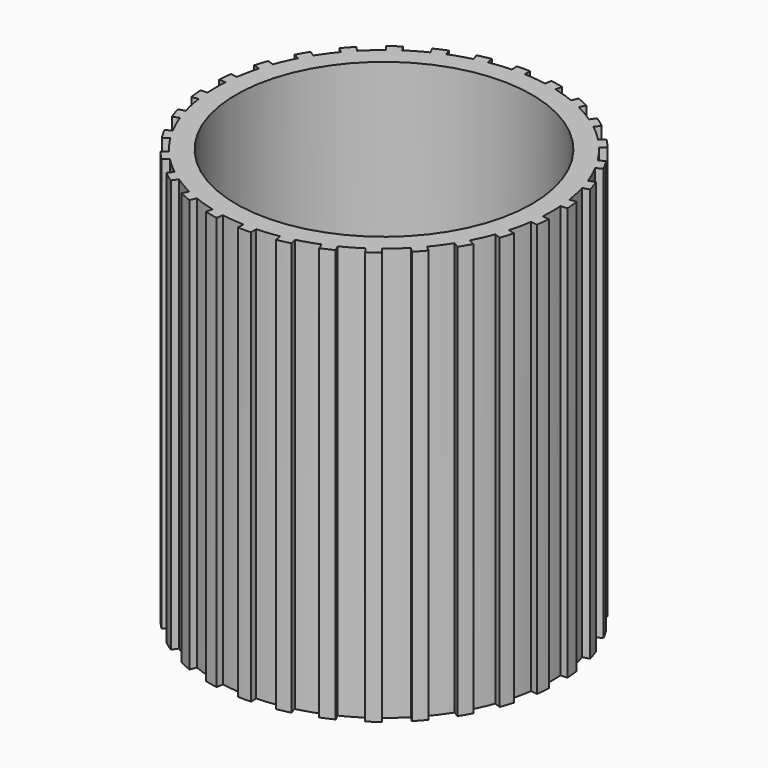
from build123d import *

# Parameters (mm, degrees)
F0_R     = 12.5
F1_DEPTH = 15.5
F0_R_2   = 11.1
F2_DEPTH = 15.5


with BuildPart() as f1:
    # F0 (on Top) → F1 (new body, symmetric)
    with BuildSketch(Plane.XY):
        with BuildLine():
            Line((0.5, -13.090455), (0.480916, -12.590819))
            ThreePointArc((0.480916, -12.590819), (1.317059, -12.530976), (2.147372, -12.415667))
            Line((2.147372, -12.415667), (2.232585, -12.908353))
            ThreePointArc((2.232585, -12.908353), (2.723643, -12.813734), (3.210732, -12.700441))
            Line((3.210732, -12.700441), (3.088185, -12.215691))
            ThreePointArc((3.088185, -12.215691), (3.893614, -11.983312), (4.681809, -11.697892))
            Line((4.681809, -11.697892), (4.867595, -12.162094))
            ThreePointArc((4.867595, -12.162094), (5.32825, -11.967445), (5.78114, -11.755357))
            Line((5.78114, -11.755357), (5.560486, -11.306679))
            ThreePointArc((5.560486, -11.306679), (6.3, -10.91192), (7.011628, -10.468862))
            Line((7.011628, -10.468862), (7.289868, -10.884293))
            ThreePointArc((7.289868, -10.884293), (7.699987, -10.598123), (8.098885, -10.296508))
            Line((8.098885, -10.296508), (7.789767, -9.903511))
            ThreePointArc((7.789767, -9.903511), (8.431046, -9.363625), (9.035006, -8.782293))
            Line((9.035006, -8.782293), (9.393538, -9.130796))
            ThreePointArc((9.393538, -9.130796), (9.735197, -8.765611), (10.062669, -8.387651))
            Line((10.062669, -8.387651), (9.678598, -8.067512))
            ThreePointArc((9.678598, -8.067512), (10.193614, -7.406094), (10.663511, -6.711895))
            Line((10.663511, -6.711895), (11.086666, -6.97824))
            ThreePointArc((11.086666, -6.97824), (11.344933, -6.55), (11.586666, -6.112215))
            Line((11.586666, -6.112215), (11.144427, -5.878924))
            ThreePointArc((11.144427, -5.878924), (11.510673, -5.124882), (11.825969, -4.348155))
            Line((11.825969, -4.348155), (12.295254, -4.520701))
            ThreePointArc((12.295254, -4.520701), (12.45884, -4.048123), (12.604271, -3.569645))
            Line((12.604271, -3.569645), (12.123192, -3.433399))
            ThreePointArc((12.123192, -3.433399), (12.32466, -2.619687), (12.471576, -1.79438))
            Line((12.471576, -1.79438), (12.966479, -1.865586))
            ThreePointArc((12.966479, -1.865586), (13.028237, -1.369323), (13.071008, -0.871064))
            Line((13.071008, -0.871064), (12.572114, -0.837817))
            ThreePointArc((12.572114, -0.837817), (12.6, 0), (12.572114, 0.837817))
            Line((12.572114, 0.837817), (13.071008, 0.871064))
            ThreePointArc((13.071008, 0.871064), (13.028237, 1.369323), (12.966479, 1.865586))
            Line((12.966479, 1.865586), (12.471576, 1.79438))
            ThreePointArc((12.471576, 1.79438), (12.32466, 2.619687), (12.123192, 3.433399))
            Line((12.123192, 3.433399), (12.604271, 3.569645))
            ThreePointArc((12.604271, 3.569645), (12.45884, 4.048123), (12.295254, 4.520701))
            Line((12.295254, 4.520701), (11.825969, 4.348155))
            ThreePointArc((11.825969, 4.348155), (11.510673, 5.124882), (11.144427, 5.878924))
            Line((11.144427, 5.878924), (11.586666, 6.112215))
            ThreePointArc((11.586666, 6.112215), (11.344933, 6.55), (11.086666, 6.97824))
            Line((11.086666, 6.97824), (10.663511, 6.711895))
            ThreePointArc((10.663511, 6.711895), (10.193614, 7.406094), (9.678598, 8.067512))
            Line((9.678598, 8.067512), (10.062669, 8.387651))
            ThreePointArc((10.062669, 8.387651), (9.735197, 8.765611), (9.393538, 9.130796))
            Line((9.393538, 9.130796), (9.035006, 8.782293))
            ThreePointArc((9.035006, 8.782293), (8.431046, 9.363625), (7.789767, 9.903511))
            Line((7.789767, 9.903511), (8.098885, 10.296508))
            ThreePointArc((8.098885, 10.296508), (7.699987, 10.598123), (7.289868, 10.884293))
            Line((7.289868, 10.884293), (7.011628, 10.468862))
            ThreePointArc((7.011628, 10.468862), (6.3, 10.91192), (5.560486, 11.306679))
            Line((5.560486, 11.306679), (5.78114, 11.755357))
            ThreePointArc((5.78114, 11.755357), (5.32825, 11.967445), (4.867595, 12.162094))
            Line((4.867595, 12.162094), (4.681809, 11.697892))
            ThreePointArc((4.681809, 11.697892), (3.893614, 11.983312), (3.088185, 12.215691))
            Line((3.088185, 12.215691), (3.210732, 12.700441))
            ThreePointArc((3.210732, 12.700441), (2.723643, 12.813734), (2.232585, 12.908353))
            Line((2.232585, 12.908353), (2.147372, 12.415667))
            ThreePointArc((2.147372, 12.415667), (1.317059, 12.530976), (0.480916, 12.590819))
            Line((0.480916, 12.590819), (0.5, 13.090455))
            ThreePointArc((0.5, 13.090455), (0, 13.1), (-0.5, 13.090455))
            Line((-0.5, 13.090455), (-0.480916, 12.590819))
            ThreePointArc((-0.480916, 12.590819), (-1.317059, 12.530976), (-2.147372, 12.415667))
            Line((-2.147372, 12.415667), (-2.232585, 12.908353))
            ThreePointArc((-2.232585, 12.908353), (-2.723643, 12.813734), (-3.210732, 12.700441))
            Line((-3.210732, 12.700441), (-3.088185, 12.215691))
            ThreePointArc((-3.088185, 12.215691), (-3.893614, 11.983312), (-4.681809, 11.697892))
            Line((-4.681809, 11.697892), (-4.867595, 12.162094))
            ThreePointArc((-4.867595, 12.162094), (-5.32825, 11.967445), (-5.78114, 11.755357))
            Line((-5.78114, 11.755357), (-5.560486, 11.306679))
            ThreePointArc((-5.560486, 11.306679), (-6.3, 10.91192), (-7.011628, 10.468862))
            Line((-7.011628, 10.468862), (-7.289868, 10.884293))
            ThreePointArc((-7.289868, 10.884293), (-7.699987, 10.598123), (-8.098885, 10.296508))
            Line((-8.098885, 10.296508), (-7.789767, 9.903511))
            ThreePointArc((-7.789767, 9.903511), (-8.431046, 9.363625), (-9.035006, 8.782293))
            Line((-9.035006, 8.782293), (-9.393538, 9.130796))
            ThreePointArc((-9.393538, 9.130796), (-9.735197, 8.765611), (-10.062669, 8.387651))
            Line((-10.062669, 8.387651), (-9.678598, 8.067512))
            ThreePointArc((-9.678598, 8.067512), (-10.193614, 7.406094), (-10.663511, 6.711895))
            Line((-10.663511, 6.711895), (-11.086666, 6.97824))
            ThreePointArc((-11.086666, 6.97824), (-11.344933, 6.55), (-11.586666, 6.112215))
            Line((-11.586666, 6.112215), (-11.144427, 5.878924))
            ThreePointArc((-11.144427, 5.878924), (-11.510673, 5.124882), (-11.825969, 4.348155))
            Line((-11.825969, 4.348155), (-12.295254, 4.520701))
            ThreePointArc((-12.295254, 4.520701), (-12.45884, 4.048123), (-12.604271, 3.569645))
            Line((-12.604271, 3.569645), (-12.123192, 3.433399))
            ThreePointArc((-12.123192, 3.433399), (-12.32466, 2.619687), (-12.471576, 1.79438))
            Line((-12.471576, 1.79438), (-12.966479, 1.865586))
            ThreePointArc((-12.966479, 1.865586), (-13.028237, 1.369323), (-13.071008, 0.871064))
            Line((-13.071008, 0.871064), (-12.572114, 0.837817))
            ThreePointArc((-12.572114, 0.837817), (-12.6, 0), (-12.572114, -0.837817))
            Line((-12.572114, -0.837817), (-13.071008, -0.871064))
            ThreePointArc((-13.071008, -0.871064), (-13.028237, -1.369323), (-12.966479, -1.865586))
            Line((-12.966479, -1.865586), (-12.471576, -1.79438))
            ThreePointArc((-12.471576, -1.79438), (-12.32466, -2.619687), (-12.123192, -3.433399))
            Line((-12.123192, -3.433399), (-12.604271, -3.569645))
            ThreePointArc((-12.604271, -3.569645), (-12.45884, -4.048123), (-12.295254, -4.520701))
            Line((-12.295254, -4.520701), (-11.825969, -4.348155))
            ThreePointArc((-11.825969, -4.348155), (-11.510673, -5.124882), (-11.144427, -5.878924))
            Line((-11.144427, -5.878924), (-11.586666, -6.112215))
            ThreePointArc((-11.586666, -6.112215), (-11.344933, -6.55), (-11.086666, -6.97824))
            Line((-11.086666, -6.97824), (-10.663511, -6.711895))
            ThreePointArc((-10.663511, -6.711895), (-10.193614, -7.406094), (-9.678598, -8.067512))
            Line((-9.678598, -8.067512), (-10.062669, -8.387651))
            ThreePointArc((-10.062669, -8.387651), (-9.735197, -8.765611), (-9.393538, -9.130796))
            Line((-9.393538, -9.130796), (-9.035006, -8.782293))
            ThreePointArc((-9.035006, -8.782293), (-8.431046, -9.363625), (-7.789767, -9.903511))
            Line((-7.789767, -9.903511), (-8.098885, -10.296508))
            ThreePointArc((-8.098885, -10.296508), (-7.699987, -10.598123), (-7.289868, -10.884293))
            Line((-7.289868, -10.884293), (-7.011628, -10.468862))
            ThreePointArc((-7.011628, -10.468862), (-6.3, -10.91192), (-5.560486, -11.306679))
            Line((-5.560486, -11.306679), (-5.78114, -11.755357))
            ThreePointArc((-5.78114, -11.755357), (-5.32825, -11.967445), (-4.867595, -12.162094))
            Line((-4.867595, -12.162094), (-4.681809, -11.697892))
            ThreePointArc((-4.681809, -11.697892), (-3.893614, -11.983312), (-3.088185, -12.215691))
            Line((-3.088185, -12.215691), (-3.210732, -12.700441))
            ThreePointArc((-3.210732, -12.700441), (-2.723643, -12.813734), (-2.232585, -12.908353))
            Line((-2.232585, -12.908353), (-2.147372, -12.415667))
            ThreePointArc((-2.147372, -12.415667), (-1.317059, -12.530976), (-0.480916, -12.590819))
            Line((-0.480916, -12.590819), (-0.5, -13.090455))
            ThreePointArc((-0.5, -13.090455), (0, -13.1), (0.5, -13.090455))
        make_face()
        Circle(F0_R, mode=Mode.SUBTRACT)
    extrude(amount=F1_DEPTH, both=True)

    # F0 (on Top) → F2 (join, symmetric)
    with BuildSketch(Plane.XY):
        Circle(F0_R)
        Circle(F0_R_2, mode=Mode.SUBTRACT)
    extrude(amount=F2_DEPTH, both=True)


solid = f1.part
